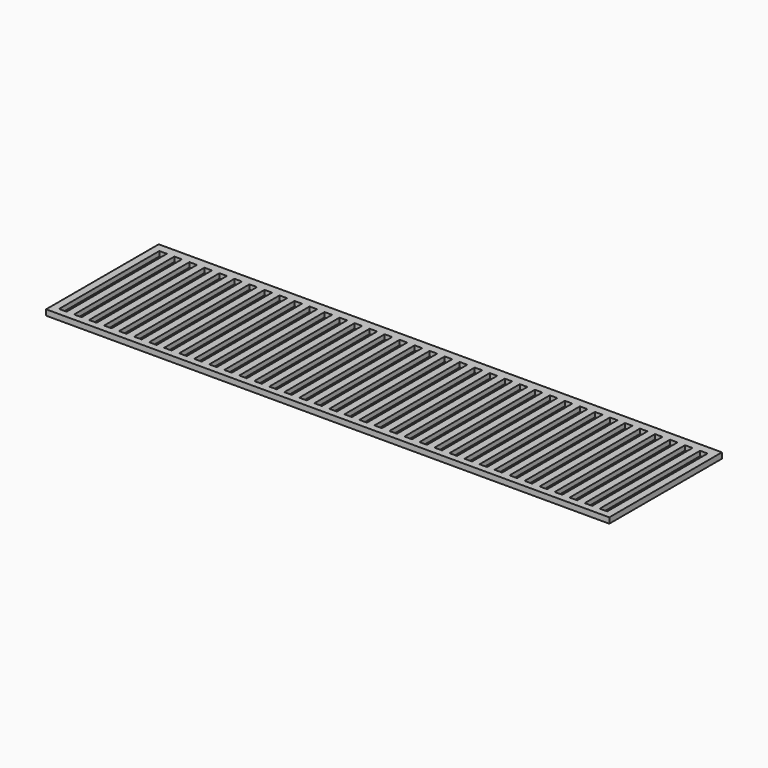
from build123d import *

# Parameters (mm, degrees)
F0_W     = 600
F0_H     = 150
F0_W_2   = 8
F0_H_2   = 133.593111
F1_DEPTH = 5
F2_W     = 600
F2_H     = 150
F3_DEPTH = 1


with BuildPart() as f1:
    # F0 (on Top) → F1 (new body)
    with BuildSketch(Plane.XY):
        with Locations((11.197913, -45.502181)):
            Rectangle(F0_W, F0_H)
        with Locations((-276.802087, -46.449782)):
            Rectangle(F0_W_2, F0_H_2, mode=Mode.SUBTRACT)
        with Locations((-260.802087, -46.449782)):
            Rectangle(F0_W_2, F0_H_2, mode=Mode.SUBTRACT)
        with Locations((-244.802087, -46.449782)):
            Rectangle(F0_W_2, F0_H_2, mode=Mode.SUBTRACT)
        with Locations((-228.802087, -46.449782)):
            Rectangle(F0_W_2, F0_H_2, mode=Mode.SUBTRACT)
        with Locations((-212.802087, -46.449782)):
            Rectangle(F0_W_2, F0_H_2, mode=Mode.SUBTRACT)
        with Locations((-196.802087, -46.449782)):
            Rectangle(F0_W_2, F0_H_2, mode=Mode.SUBTRACT)
        with Locations((-180.802087, -46.449782)):
            Rectangle(F0_W_2, F0_H_2, mode=Mode.SUBTRACT)
        with Locations((-164.802087, -46.449782)):
            Rectangle(F0_W_2, F0_H_2, mode=Mode.SUBTRACT)
        with Locations((-148.802087, -46.449782)):
            Rectangle(F0_W_2, F0_H_2, mode=Mode.SUBTRACT)
        with Locations((-132.802087, -46.449782)):
            Rectangle(F0_W_2, F0_H_2, mode=Mode.SUBTRACT)
        with Locations((-116.802087, -46.449782)):
            Rectangle(F0_W_2, F0_H_2, mode=Mode.SUBTRACT)
        with Locations((-100.802087, -46.449782)):
            Rectangle(F0_W_2, F0_H_2, mode=Mode.SUBTRACT)
        with Locations((-84.802087, -46.449782)):
            Rectangle(F0_W_2, F0_H_2, mode=Mode.SUBTRACT)
        with Locations((-68.802087, -46.449782)):
            Rectangle(F0_W_2, F0_H_2, mode=Mode.SUBTRACT)
        with Locations((-52.802087, -46.449782)):
            Rectangle(F0_W_2, F0_H_2, mode=Mode.SUBTRACT)
        with Locations((-36.802087, -46.449782)):
            Rectangle(F0_W_2, F0_H_2, mode=Mode.SUBTRACT)
        with Locations((-20.802087, -46.449782)):
            Rectangle(F0_W_2, F0_H_2, mode=Mode.SUBTRACT)
        with Locations((-4.802087, -46.449782)):
            Rectangle(F0_W_2, F0_H_2, mode=Mode.SUBTRACT)
        with Locations((11.197913, -46.449782)):
            Rectangle(F0_W_2, F0_H_2, mode=Mode.SUBTRACT)
        with Locations((27.197913, -46.449782)):
            Rectangle(F0_W_2, F0_H_2, mode=Mode.SUBTRACT)
        with Locations((43.197913, -46.449782)):
            Rectangle(F0_W_2, F0_H_2, mode=Mode.SUBTRACT)
        with Locations((59.197913, -46.449782)):
            Rectangle(F0_W_2, F0_H_2, mode=Mode.SUBTRACT)
        with Locations((75.197913, -46.449782)):
            Rectangle(F0_W_2, F0_H_2, mode=Mode.SUBTRACT)
        with Locations((91.197913, -46.449782)):
            Rectangle(F0_W_2, F0_H_2, mode=Mode.SUBTRACT)
        with Locations((107.197913, -46.449782)):
            Rectangle(F0_W_2, F0_H_2, mode=Mode.SUBTRACT)
        with Locations((123.197913, -46.449782)):
            Rectangle(F0_W_2, F0_H_2, mode=Mode.SUBTRACT)
        with Locations((139.197913, -46.449782)):
            Rectangle(F0_W_2, F0_H_2, mode=Mode.SUBTRACT)
        with Locations((155.197913, -46.449782)):
            Rectangle(F0_W_2, F0_H_2, mode=Mode.SUBTRACT)
        with Locations((171.197913, -46.449782)):
            Rectangle(F0_W_2, F0_H_2, mode=Mode.SUBTRACT)
        with Locations((187.197913, -46.449782)):
            Rectangle(F0_W_2, F0_H_2, mode=Mode.SUBTRACT)
        with Locations((203.197913, -46.449782)):
            Rectangle(F0_W_2, F0_H_2, mode=Mode.SUBTRACT)
        with Locations((219.197913, -46.449782)):
            Rectangle(F0_W_2, F0_H_2, mode=Mode.SUBTRACT)
        with Locations((235.197913, -46.449782)):
            Rectangle(F0_W_2, F0_H_2, mode=Mode.SUBTRACT)
        with Locations((251.197913, -46.449782)):
            Rectangle(F0_W_2, F0_H_2, mode=Mode.SUBTRACT)
        with Locations((267.197913, -46.449782)):
            Rectangle(F0_W_2, F0_H_2, mode=Mode.SUBTRACT)
        with Locations((283.197913, -46.449782)):
            Rectangle(F0_W_2, F0_H_2, mode=Mode.SUBTRACT)
        with Locations((299.197913, -46.449782)):
            Rectangle(F0_W_2, F0_H_2, mode=Mode.SUBTRACT)
    extrude(amount=F1_DEPTH)

    # F2 (on face) → F3 (join)
    with BuildSketch(Plane(origin=(0, 0, 0), x_dir=(1, 0, 0), z_dir=(0, 0, -1))):
        with Locations((11.197913, 45.502181)):
            Rectangle(F2_W, F2_H)
    extrude(amount=F3_DEPTH)


solid = f1.part
